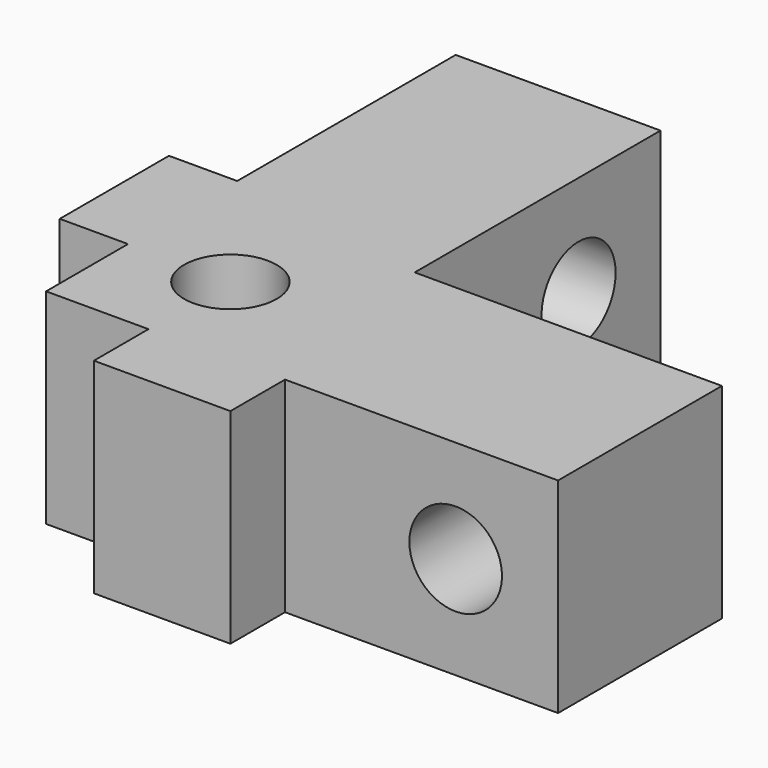
from build123d import *

# Parameters (mm, degrees)
F0_R     = 2.15265
F1_DEPTH = 9.525
F2_R     = 2.15265
F3_DEPTH = 9.525
F4_R     = 2.15265
F5_DEPTH = 9.525


with BuildPart() as f1:
    # F0 (on Top) → F1 (new body)
    with BuildSketch(Plane.XY):
        Polygon((14.2875, 0), (0, 0), (0, 14.2875), (-9.525, 14.2875), (-9.525, 1.5875), (-12.7, 1.5875), (-12.7, -4.7625), (-9.525, -4.7625), (-9.525, -9.525), (-4.7625, -9.525), (-4.7625, -12.7), (1.5875, -12.7), (1.5875, -9.525), (14.2875, -9.525), align=None)
        with Locations((-4.7625, -4.7625)):
            Circle(F0_R, mode=Mode.SUBTRACT)
    extrude(amount=F1_DEPTH)

    # F2 (on face) → F3 (cut, through all)
    with BuildSketch(Plane(origin=(0, 0, 0), x_dir=(-1, 0, 0), z_dir=(0, 1, 0))):
        with Locations((-9.525, 4.7625)):
            Circle(F2_R)
    extrude(amount=-F3_DEPTH, mode=Mode.SUBTRACT)

    # F4 (on face) → F5 (cut, through all)
    with BuildSketch(Plane.YZ):
        with Locations((9.525, 4.7625)):
            Circle(F4_R)
    extrude(amount=-F5_DEPTH, mode=Mode.SUBTRACT)


solid = f1.part
